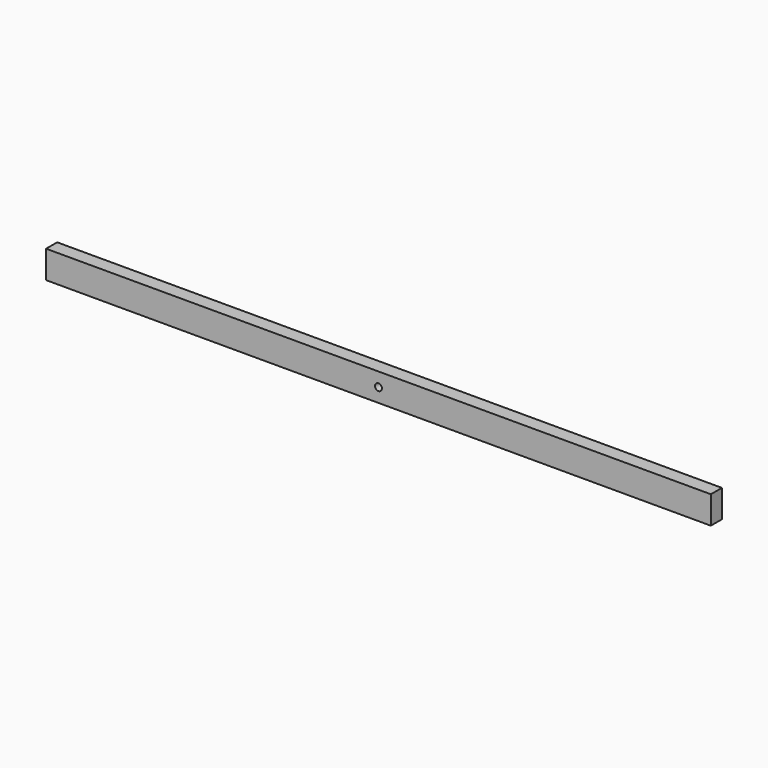
from build123d import *

# Parameters (mm, degrees)
F0_W          = 50.8
F0_H          = 101.6
F1_DEPTH      = 1219.2
F2_R          = 12.7
F3_DEPTH      = 25.401
F3_DEPTH_BACK = 25.401


with BuildPart() as f1:
    # F0 (on Right) → F1 (new body, symmetric)
    with BuildSketch(Plane.YZ):
        Rectangle(F0_W, F0_H)
    extrude(amount=F1_DEPTH, both=True)

    # F2 (on Front) → F3 (cut, two sides)
    with BuildSketch(Plane.XZ) as f3_sk:
        Circle(F2_R)
    extrude(amount=-F3_DEPTH, mode=Mode.SUBTRACT)
    extrude(f3_sk.sketch, amount=F3_DEPTH_BACK, mode=Mode.SUBTRACT)


solid = f1.part
